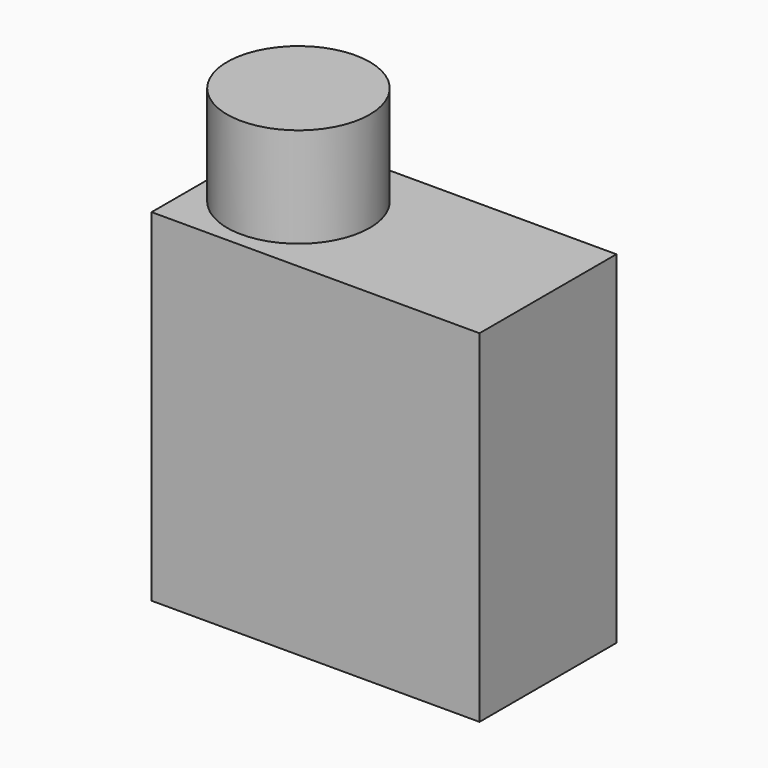
from build123d import *

# Parameters (mm, degrees)
SKETCH_W     = 23
SKETCH_H     = 12
PAD_DEPTH    = 24
SKETCH001_R  = 5
PAD001_DEPTH = 7


with BuildPart() as part:
    # Sketch → Pad (new body)
    with BuildSketch(Plane.XY):
        Rectangle(SKETCH_W, SKETCH_H)
    extrude(amount=PAD_DEPTH)

    # Sketch001 (on Face6 of Pad) → Pad001 (join)
    with BuildSketch(Plane.XY.offset(24)):
        with Locations((-6, 0)):
            Circle(SKETCH001_R)
    extrude(amount=PAD001_DEPTH)


solid = part.part
